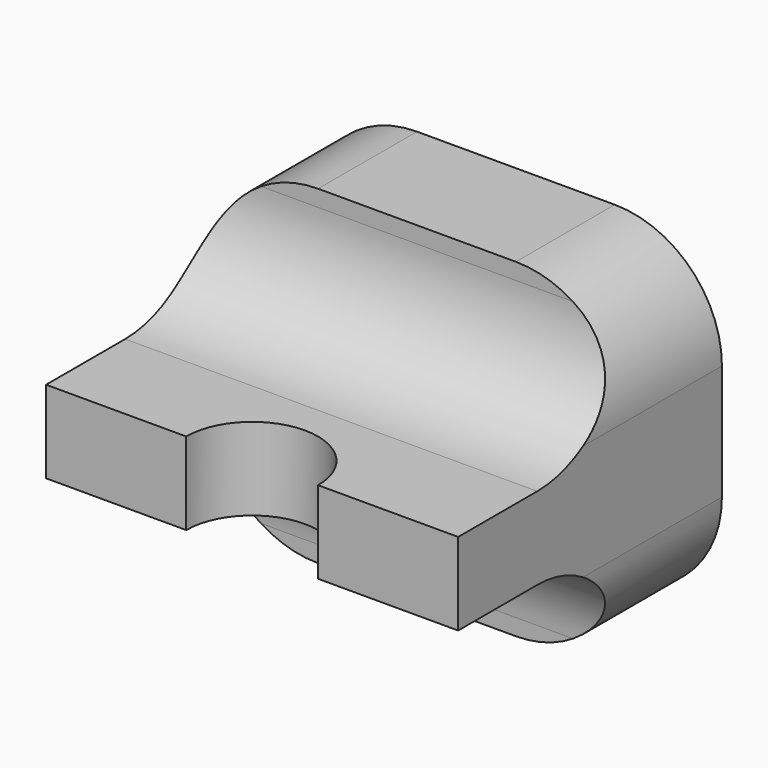
from build123d import *

# Parameters (mm, degrees)
F1_DEPTH = 15
F3_DEPTH = 5
F4_R     = 13


with BuildPart() as f1:
    # F0 (on Front) → F1 (new body)
    with BuildSketch(Plane.XZ):
        with BuildLine():
            ThreePointArc((25, 7), (21.192388, 16.192388), (12, 20))
            Line((12, 20), (-12, 20))
            ThreePointArc((-12, 20), (-21.192388, 16.192388), (-25, 7))
            Line((-25, 7), (-25, -7))
            ThreePointArc((-25, -7), (-21.192388, -16.192388), (-12, -20))
            Line((-12, -20), (12, -20))
            ThreePointArc((12, -20), (21.192388, -16.192388), (25, -7))
            Line((25, -7), (25, 7))
        make_face()
    extrude(amount=-F1_DEPTH)

    # F2 (on Top) → F3 (join, symmetric)
    with BuildSketch(Plane.XY):
        with BuildLine():
            Line((-25, -25), (-8, -25))
            ThreePointArc((-8, -25), (0, -17), (8, -25))
            Line((8, -25), (25, -25))
            Line((25, -25), (25, 0))
            Line((25, 0), (-25, 0))
            Line((-25, 0), (-25, -25))
        make_face()
    extrude(amount=F3_DEPTH, both=True)

    # F4
    f4_edges = [f1.edges().sort_by_distance(p)[0] for p in [
        (0, 0, 5),
        (0, 0, -5),
    ]]
    fillet(f4_edges, radius=F4_R)


solid = f1.part
